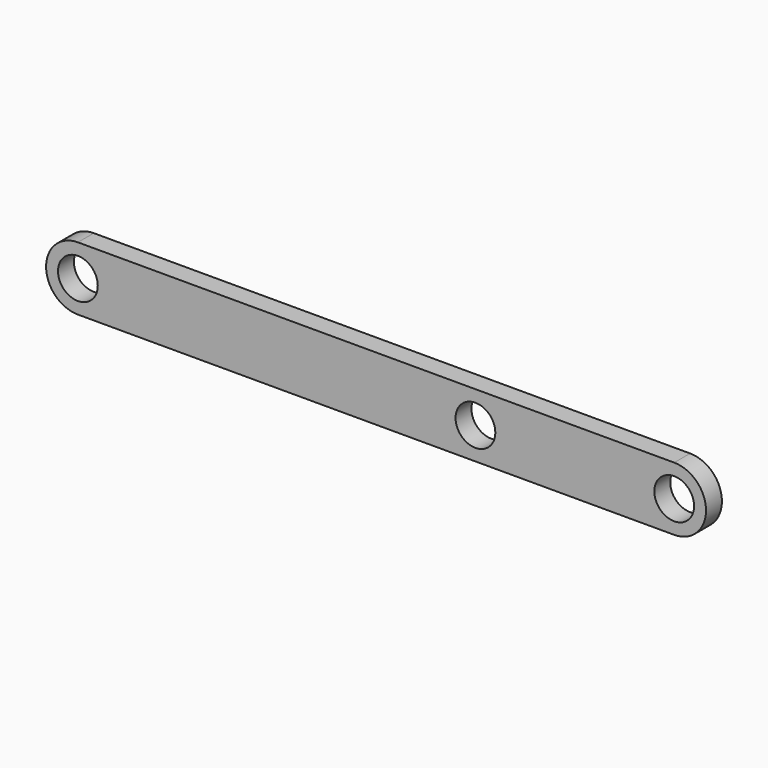
from build123d import *

# Parameters (mm, degrees)
F0_R     = 63.5
F1_DEPTH = 63.5


with BuildPart() as f1:
    # F0 (on Front) → F1 (new body)
    with BuildSketch(Plane.XZ):
        with BuildLine():
            Line((1905, 101.6), (0, 101.6))
            ThreePointArc((0, 101.6), (-101.6, 0), (0, -101.6))
            Line((0, -101.6), (1905, -101.6))
            ThreePointArc((1905, -101.6), (2006.6, 0), (1905, 101.6))
        make_face()
        Circle(F0_R, mode=Mode.SUBTRACT)
        with Locations((1270, 0)):
            Circle(F0_R, mode=Mode.SUBTRACT)
        with Locations((1905, 0)):
            Circle(F0_R, mode=Mode.SUBTRACT)
    extrude(amount=F1_DEPTH)


solid = f1.part
